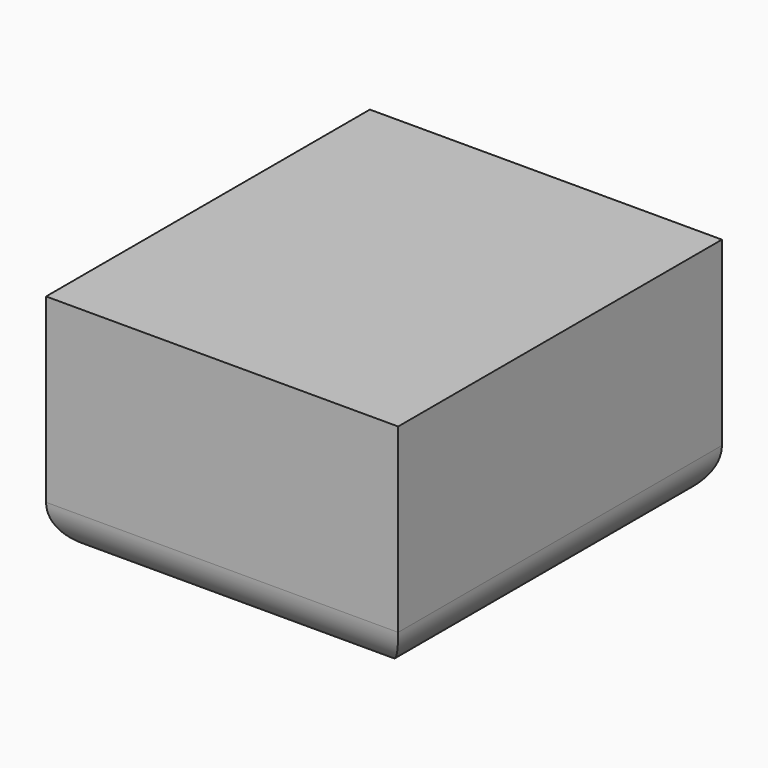
from build123d import *

# Parameters (mm, degrees)
F0_W     = 38.855527
F0_H     = 44.665232
F1_DEPTH = 25
F2_R     = 5


with BuildPart() as f1:
    # F0 (on Top) → F1 (new body)
    with BuildSketch(Plane.XY):
        with Locations((19.427763, -22.332616)):
            Rectangle(F0_W, F0_H)
        with Locations((19.427763, -22.332616)):
            Rectangle(F0_W, F0_H)
    extrude(amount=F1_DEPTH)

    # F2
    f2_edges = [f1.edges().sort_by_distance(p)[0] for p in [
        (19.427763, -44.665232, 0),
        (38.855527, -22.332616, 0),
        (19.427763, 0, 0),
        (0, -22.332616, 0),
    ]]
    fillet(f2_edges, radius=F2_R)


solid = f1.part
